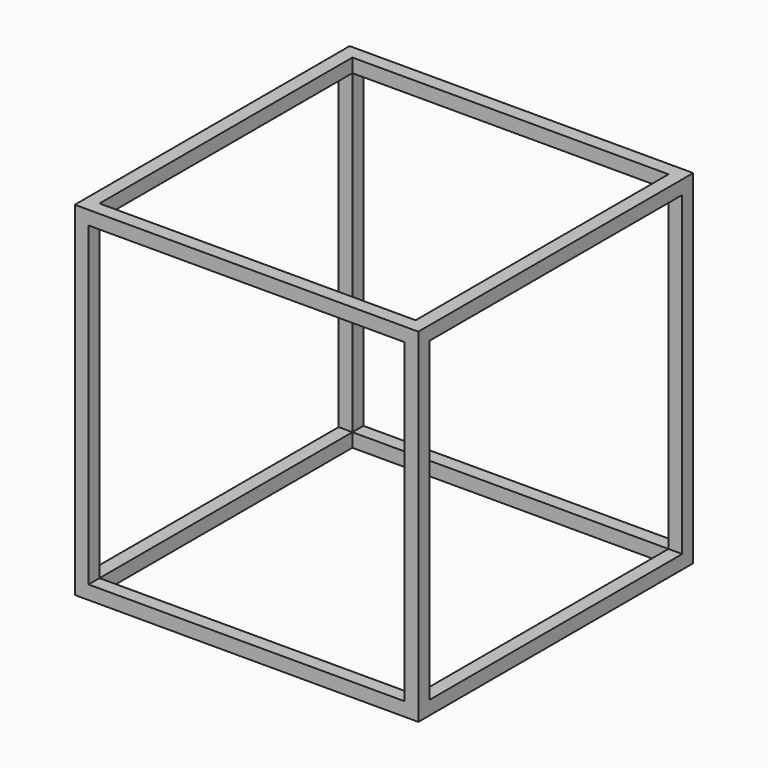
from build123d import *

# Parameters (mm, degrees)
F0_W     = 63.5
F0_H     = 63.5
F1_DEPTH = 31.75
F2_T     = -2.54
F3_DEPTH = 2.541
F4_W     = 58.42
F4_H     = 58.42
F5_DEPTH = 63.501
F6_W     = 58.42
F6_H     = 58.42
F7_DEPTH = 63.501


with BuildPart() as f1:
    # F0 (on Top) → F1 (new body, symmetric)
    with BuildSketch(Plane.XY):
        Rectangle(F0_W, F0_H)
    extrude(amount=F1_DEPTH, both=True)

    # F2
    f2_openings = [f1.faces().sort_by_distance(p)[0] for p in [
        (-31.75, 0, 0),
    ]]
    offset(amount=F2_T, openings=f2_openings)

    # F3 (cut, through all): a face of the model
    f3_faces = [f1.faces().sort_by_distance(p)[0] for p in [
        (29.21, 0, 0),
    ]]
    extrude(f3_faces, amount=-F3_DEPTH, mode=Mode.SUBTRACT)

    # F4 (on face) → F5 (cut, through all)
    with BuildSketch(Plane.XY.offset(31.75)):
        Rectangle(F4_W, F4_H)
    extrude(amount=-F5_DEPTH, mode=Mode.SUBTRACT)

    # F6 (on face) → F7 (cut, through all)
    with BuildSketch(Plane(origin=(0, 31.75, 0), x_dir=(-1, 0, 0), z_dir=(0, 1, 0))):
        Rectangle(F6_W, F6_H)
    extrude(amount=-F7_DEPTH, mode=Mode.SUBTRACT)


solid = f1.part
